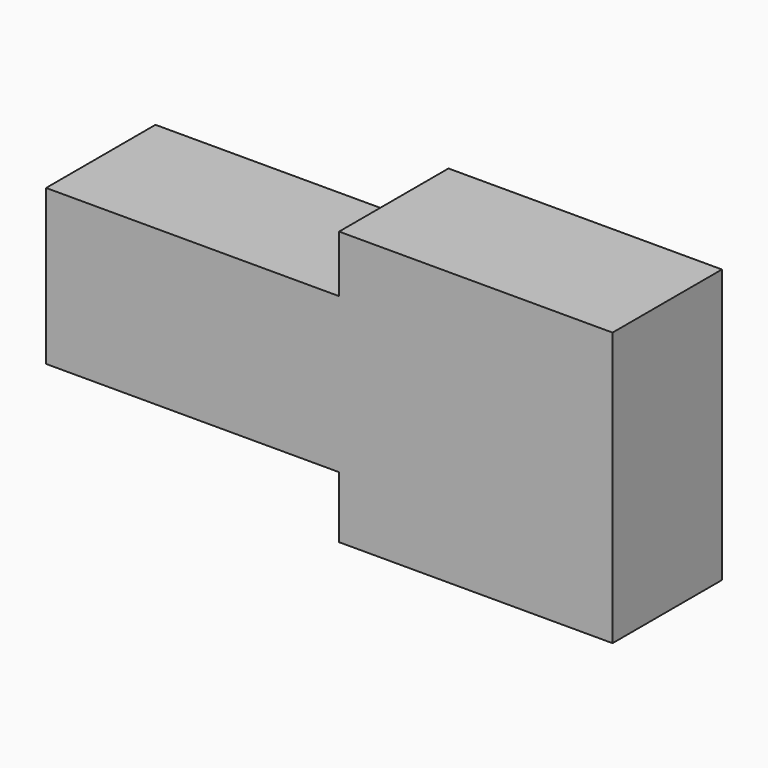
from build123d import *

# Parameters (mm, degrees)
F0_W     = 50
F0_H     = 50
F1_DEPTH = 25
F0_W_2   = 20.7156650722
F0_H_2   = 28.3317221329
F2_DEPTH = 32.8626733273


with BuildPart() as f1:
    # F0 (on Front) → F1 (new body)
    with BuildSketch(Plane.XZ):
        with Locations((3.7886876613, 2.456478402)):
            Rectangle(F0_W, F0_H)
    extrude(amount=F1_DEPTH)



with BuildPart() as f1b:
    # F0 (on Front) → F1, piece 2 (new body)
    with BuildSketch(Plane.XZ):
        with Locations((-64.4318182021, 2.8941002674)):
            Rectangle(F0_W_2, F0_H_2)
    extrude(amount=F1_DEPTH)


with BuildPart() as f1_1:
    add(f1.part)
    # F2 (add, through all): a face of the model
    f2_faces = [f1b.part.faces().sort_by_distance(p)[0] for p in [
        (-54.073985666, -12.5, 2.8941002674),
    ]]

    add(f1b.part)  # F2 merges F1b
    extrude(f2_faces, amount=F2_DEPTH)


solid = f1_1.part
